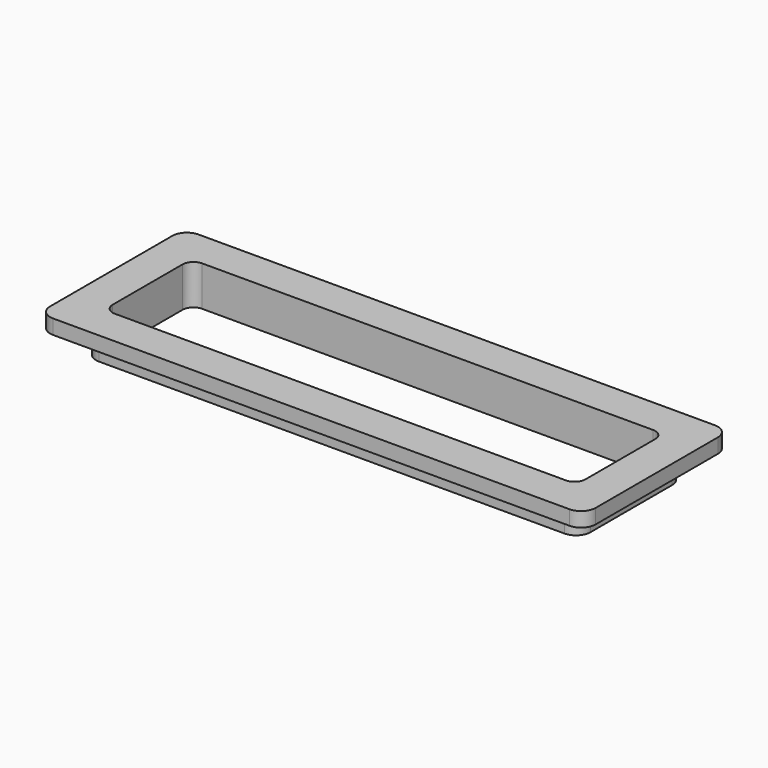
from build123d import *

# Parameters (mm, degrees)
F0_W     = 75
F0_H     = 25
F0_W_2   = 65
F0_H_2   = 15
F1_DEPTH = 2
F2_R     = 2
F3_W     = 68
F3_H     = 18
F3_W_2   = 65
F3_H_2   = 15
F4_DEPTH = 3.5
F5_R     = 2
F6_R     = 1.5


with BuildPart() as f1:
    # F0 (on Top) → F1 (new body)
    with BuildSketch(Plane.XY):
        Rectangle(F0_W, F0_H)
        Rectangle(F0_W_2, F0_H_2, mode=Mode.SUBTRACT)
    extrude(amount=F1_DEPTH)

    # F2
    f2_edges = [f1.edges().sort_by_distance(p)[0] for p in [
        (37.5, 12.5, 1),
        (37.5, -12.5, 1),
        (-37.5, -12.5, 1),
        (-37.5, 12.5, 1),
    ]]
    fillet(f2_edges, radius=F2_R)

    # F3 (on face) → F4 (join)
    with BuildSketch(Plane(origin=(0, 0, 0), x_dir=(1, 0, 0), z_dir=(0, 0, -1))):
        Rectangle(F3_W, F3_H)
        Rectangle(F3_W_2, F3_H_2, mode=Mode.SUBTRACT)
    extrude(amount=F4_DEPTH)

    # F5
    f5_edges = [f1.edges().sort_by_distance(p)[0] for p in [
        (34, -9, -1.75),
        (-34, -9, -1.75),
        (-34, 9, -1.75),
        (34, 9, -1.75),
    ]]
    fillet(f5_edges, radius=F5_R)

    # F6
    f6_edges = [f1.edges().sort_by_distance(p)[0] for p in [
        (32.5, 7.5, -0.75),
        (32.5, -7.5, -0.75),
        (-32.5, -7.5, -0.75),
        (-32.5, 7.5, -0.75),
    ]]
    fillet(f6_edges, radius=F6_R)


solid = f1.part
